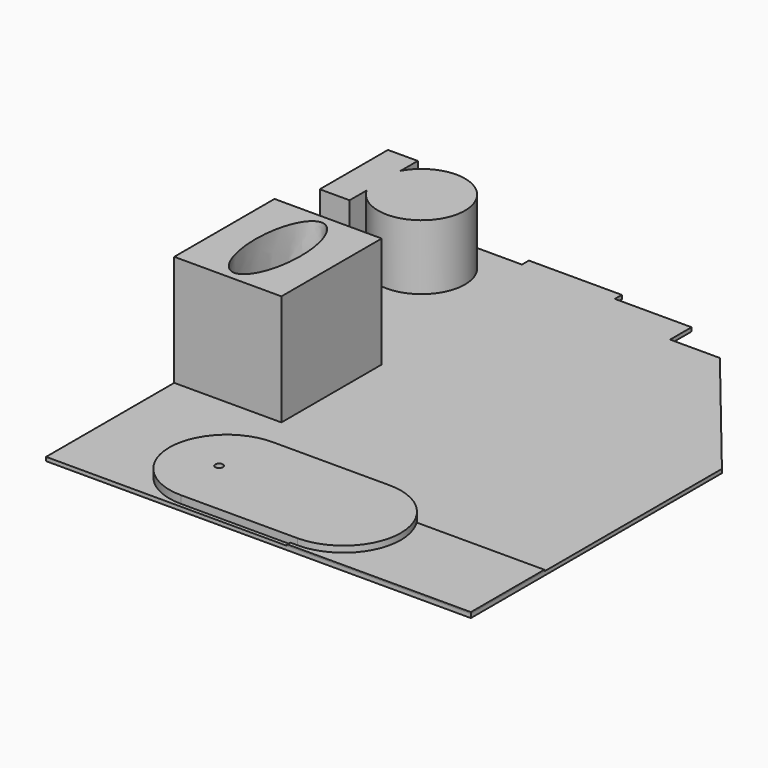
from build123d import *

# Parameters (mm, degrees)
F1_DEPTH = 25.4
F2_W     = 1219.2
F2_H     = 609.6
F3_DEPTH = 9.525
F4_W     = 774.7
F4_H     = 762
F4_R     = 25.4
F5_DEPTH = 76.2
F7_DEPTH = 457.2
F8_W     = 711.2
F8_H     = 831.85
F9_DEPTH = 762


with BuildPart() as f1:
    # F0 (on Top) → F1 (new body)
    with BuildSketch(Plane.XY):
        Polygon((-1803.4, 0), (0, 0), (1016, 0), (1016, 2082.8), (230.240418, 3048), (-99.959582, 3048), (-99.959582, 3225.8), (-608.882606, 3225.8), (-608.882606, 3283.465385), (-1225.80409, 3283.465385), (-1225.80409, 3225.8), (-2131.959582, 3225.8), (-2131.959582, 2489.2), (-1803.4, 2489.2), align=None)
    extrude(amount=F1_DEPTH)


with BuildPart() as f3:
    # F2 (on face) → F3 (new body)
    with BuildSketch(Plane.XY.offset(25.4)):
        with Locations((406.4, 304.8)):
            Rectangle(F2_W, F2_H)
    extrude(amount=F3_DEPTH)


with BuildPart() as f5:
    # F4 (on Top) → F5 (new body)
    with BuildSketch(Plane.XY):
        with Locations((-541.186301, 405.658662)):
            Rectangle(F4_W, F4_H)
        with BuildLine():
            ThreePointArc((-153.836301, 24.658662), (227.163699, 405.658662), (-153.836301, 786.658662))
            Line((-153.836301, 786.658662), (-153.836301, 24.658662))
        make_face()
        with BuildLine():
            Line((-928.536301, 24.658662), (-928.536301, 786.658662))
            ThreePointArc((-928.536301, 786.658662), (-1309.536301, 405.658662), (-928.536301, 24.658662))
        make_face()
        with Locations((-979.336301, 405.658662)):
            Circle(F4_R, mode=Mode.SUBTRACT)
    extrude(amount=F5_DEPTH)


with BuildPart() as f7:
    # F6 (on Top) → F7 (new body)
    with BuildSketch(Plane.XY):
        Polygon((-2053.73311, 2583.515882), (-1855.746031, 2583.515882), (-1855.746031, 2724.935293), (-1855.746031, 3007.773876), (-1855.746031, 3149.193525), (-2053.73311, 3149.193525), align=None)
        with BuildLine():
            Line((-1855.746031, 3007.773876), (-1855.746031, 2724.935293))
            ThreePointArc((-1855.746031, 2724.935293), (-1316.176813, 2866.354585), (-1855.746031, 3007.773876))
        make_face()
    extrude(amount=F7_DEPTH)


with BuildPart() as f9:
    # F8 (on Top) → F9 (new body)
    with BuildSketch(Plane.XY):
        with Locations((-1447.8, 1479.183529)):
            Rectangle(F8_W, F8_H)
        with BuildLine():
            add(Edge.make_bspline(
                [(-1447.8, 1117.337141), (-1186.263309, 1117.337141), (-1317.031655, 1660.106722), (-1447.8, 2202.876303), (-1578.568345, 1660.106722), (-1709.336691, 1117.337141), (-1447.8, 1117.337141)],
                knots=[0, 0, 0, 2.094395, 2.094395, 4.18879, 4.18879, 6.283185, 6.283185, 6.283185], degree=2, weights=[1, 0.5, 1, 0.5, 1, 0.5, 1]))
        make_face(mode=Mode.SUBTRACT)
    extrude(amount=F9_DEPTH)


solid = Compound([f1.part, f3.part, f5.part, f7.part, f9.part])
